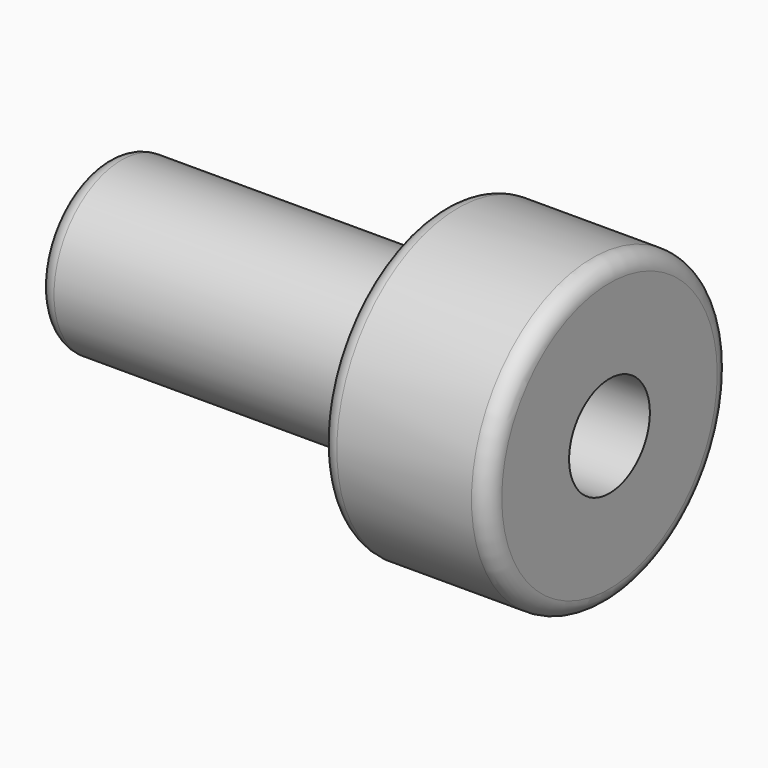
from build123d import *

# Parameters (mm, degrees)
F0_R     = 25
F0_R_2   = 15
F1_DEPTH = 100
F2_R     = 25
F2_R_2   = 15
F3_R     = 45
F3_R_2   = 25
F4_DEPTH = 50
F5_R     = 5
F6_R     = 5


with BuildPart() as f1:
    # F0 (on Right) → F1 (new body)
    with BuildSketch(Plane.YZ):
        with Locations((0, 39.787832)):
            Circle(F0_R)
        with Locations((0, 39.787832)):
            Circle(F0_R_2, mode=Mode.SUBTRACT)
    extrude(amount=F1_DEPTH)

    # F2 (on face) + F3 (on face) → F4 (join)
    with BuildSketch(Plane.YZ.offset(100)):
        with Locations((0, 39.787832)):
            Circle(F2_R)
        with Locations((0, 39.787832)):
            Circle(F2_R_2, mode=Mode.SUBTRACT)
    with BuildSketch(Plane.YZ.offset(100)):
        with Locations((0, 39.787832)):
            Circle(F3_R)
        with Locations((0, 39.787832)):
            Circle(F3_R_2, mode=Mode.SUBTRACT)
    extrude(amount=F4_DEPTH)

    # F5
    f5_edges = [f1.edges().sort_by_distance(p)[0] for p in [
        (100, -45, 39.787832),
        (0, -25, 39.787832),
    ]]
    fillet(f5_edges, radius=F5_R)

    # F6
    f6_edges = [f1.edges().sort_by_distance(p)[0] for p in [
        (150, -45, 39.787832),
    ]]
    fillet(f6_edges, radius=F6_R)


solid = f1.part
